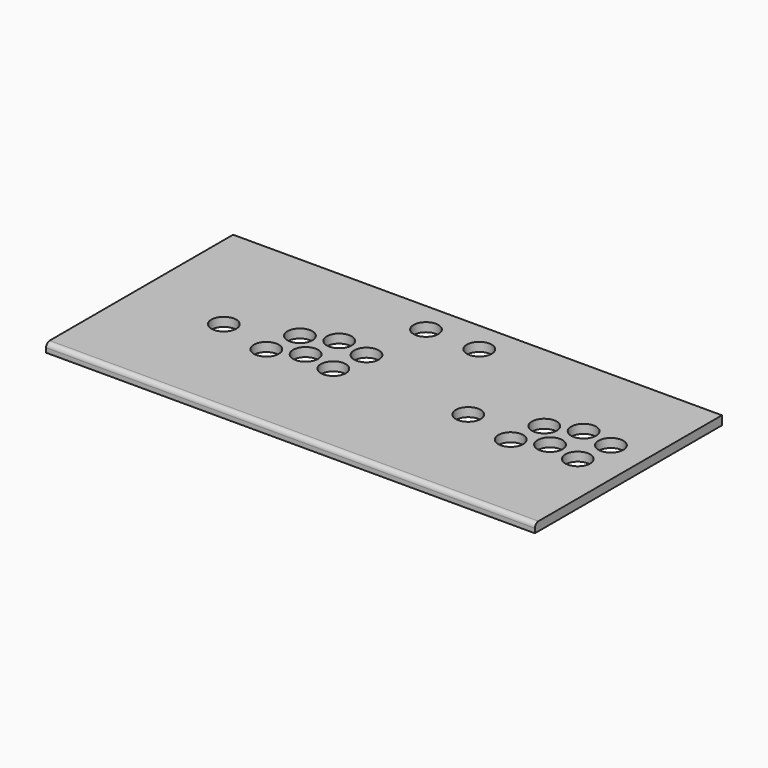
from build123d import *

# Parameters (mm, degrees)
F0_W     = 550
F0_H     = 263
F0_R     = 14
F1_DEPTH = 10
F2_R     = 5


with BuildPart() as f1:
    # F0 (on Top) → F1 (new body)
    with BuildSketch(Plane.XY):
        Rectangle(F0_W, F0_H)
        with Locations((-175, -6.5)):
            Circle(F0_R, mode=Mode.SUBTRACT)
        with Locations((-116, -20.5)):
            Circle(F0_R, mode=Mode.SUBTRACT)
        with Locations((-83, -6.5)):
            Circle(F0_R, mode=Mode.SUBTRACT)
        with Locations((-47, -12.5)):
            Circle(F0_R, mode=Mode.SUBTRACT)
        with Locations((100, -6.5)):
            Circle(F0_R, mode=Mode.SUBTRACT)
        with Locations((159, -20.5)):
            Circle(F0_R, mode=Mode.SUBTRACT)
        with Locations((192, -6.5)):
            Circle(F0_R, mode=Mode.SUBTRACT)
        with Locations((228, -12.5)):
            Circle(F0_R, mode=Mode.SUBTRACT)
        with Locations((-109, 18)):
            Circle(F0_R, mode=Mode.SUBTRACT)
        with Locations((-76, 32)):
            Circle(F0_R, mode=Mode.SUBTRACT)
        with Locations((-40.5, 26)):
            Circle(F0_R, mode=Mode.SUBTRACT)
        with Locations((-30, 96.5)):
            Circle(F0_R, mode=Mode.SUBTRACT)
        with Locations((166, 18)):
            Circle(F0_R, mode=Mode.SUBTRACT)
        with Locations((199, 32)):
            Circle(F0_R, mode=Mode.SUBTRACT)
        with Locations((234.5, 26)):
            Circle(F0_R, mode=Mode.SUBTRACT)
        with Locations((30, 96.5)):
            Circle(F0_R, mode=Mode.SUBTRACT)
    extrude(amount=-F1_DEPTH)

    # F2
    f2_edges = [f1.edges().sort_by_distance(p)[0] for p in [
        (0, -131.5, 0),
    ]]
    fillet(f2_edges, radius=F2_R)


solid = f1.part
